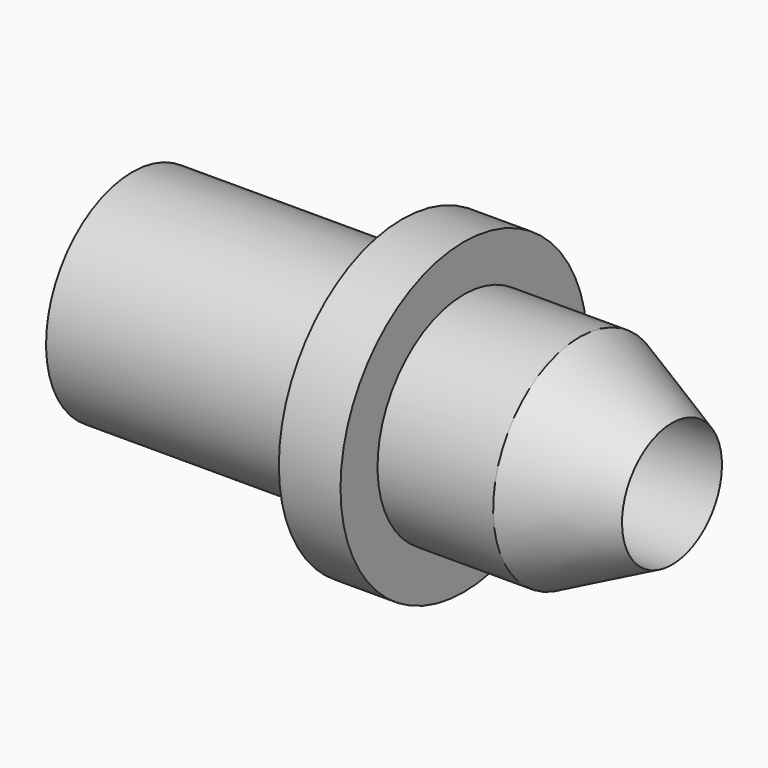
from build123d import *

# Parameters (mm, degrees)
F2_W = 4
F2_H = 3


with BuildPart() as f1:
    # F0 (on Front) → F1 (revolve)
    with BuildSketch(Plane.XZ):
        Polygon((0, 7), (0, 4.05), (35, 4.05), (29, 7), align=None)
    revolve(axis=Axis((12.388052, 0, 0), (1, 0, 0)))

    # F2 (on Front) → F3 (revolve)
    with BuildSketch(Plane.XZ):
        with Locations((19.5, 8.5)):
            Rectangle(F2_W, F2_H)
    revolve(axis=Axis((12.388052, 0, 0), (1, 0, 0)))


solid = f1.part
